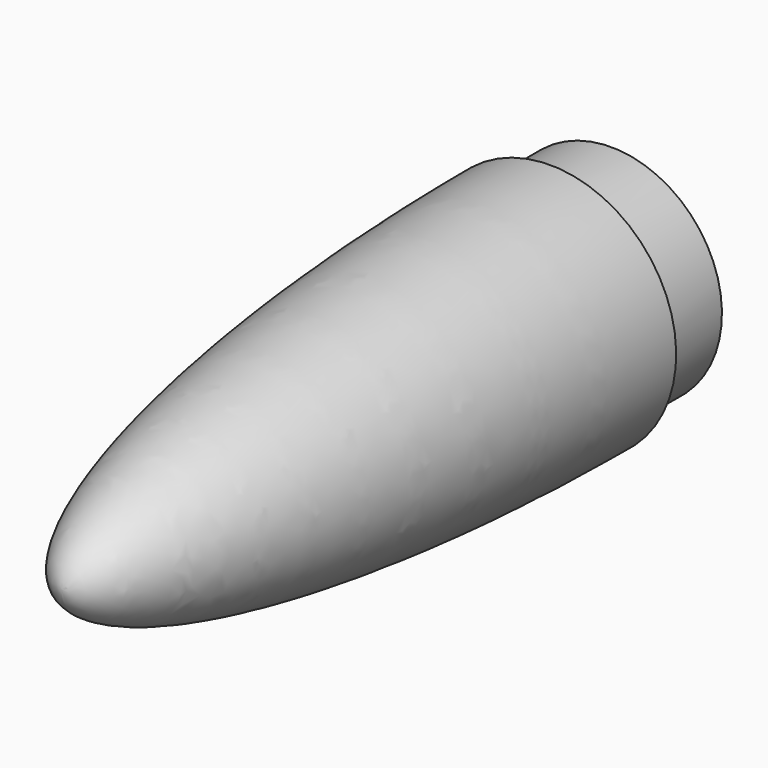
from build123d import *

# Parameters (mm, degrees)
F0_W = 10
F0_H = 14.5


with BuildPart() as f1:
    # F0 (on Right) → F1 (revolve)
    with BuildSketch(Plane.YZ):
        with BuildLine():
            Line((0, -14.5), (0, 0))
            Line((0, 0), (-80, 0))
            add(Edge.make_bspline(
                [(-80, 0), (-80, -16.5), (0, -16.5)],
                knots=[0, 0, 0, 1.570796, 1.570796, 1.570796], degree=2, weights=[1, 0.707107, 1]))
            Line((0, -16.5), (0, -14.5))
        make_face()
        with Locations((5, -7.25)):
            Rectangle(F0_W, F0_H)
    revolve(axis=Axis((0, -40, 0), (0, -1, 0)))


solid = f1.part
